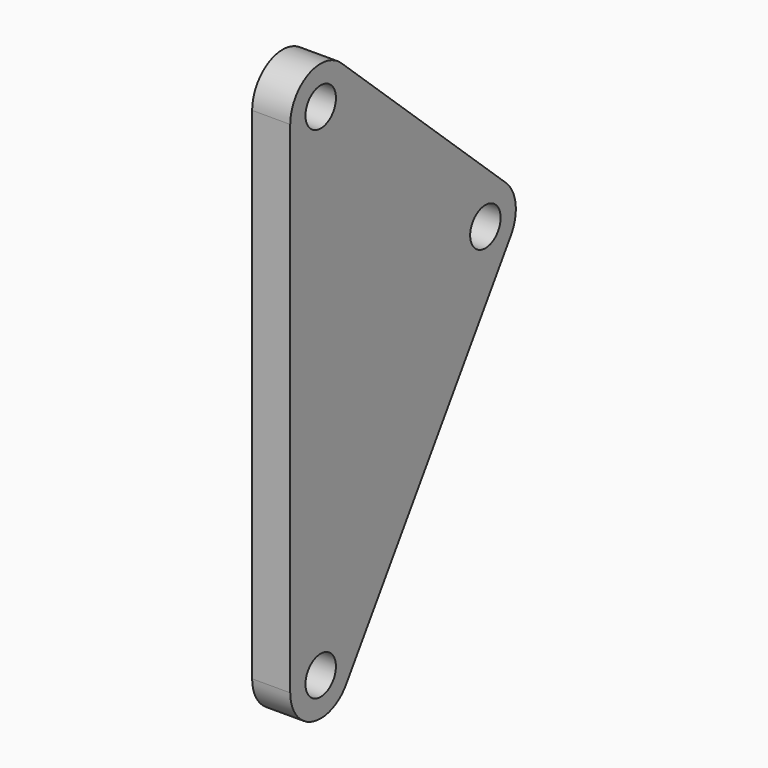
from build123d import *

# Parameters (mm, degrees)
F0_R     = 6.35
F1_DEPTH = 12.7


with BuildPart() as f1:
    # F0 (on Right) → F1 (new body)
    with BuildSketch(Plane.YZ):
        with BuildLine():
            Line((77.240655, 113.167976), (8.591655, 176.230725))
            ThreePointArc((8.591655, 176.230725), (-5.10764, 178.50564), (-12.7, 166.878))
            Line((-12.7, 166.878), (-12.7, 0))
            ThreePointArc((-12.7, 0), (-3.657452, -12.161951), (10.593393, -7.005))
            Line((10.593393, -7.005), (79.242393, 96.810251))
            ThreePointArc((79.242393, 96.810251), (81.254963, 105.357876), (77.240655, 113.167976))
        make_face()
        Circle(F0_R, mode=Mode.SUBTRACT)
        with Locations((0, 166.878)):
            Circle(F0_R, mode=Mode.SUBTRACT)
        with Locations((68.649, 103.815251)):
            Circle(F0_R, mode=Mode.SUBTRACT)
    extrude(amount=F1_DEPTH)


solid = f1.part
